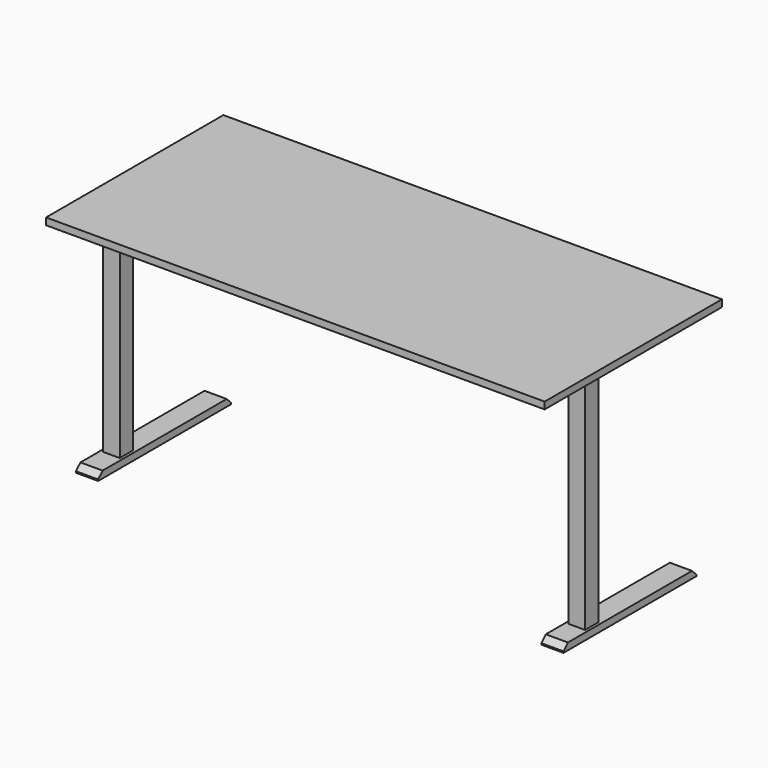
from build123d import *

# Parameters (mm, degrees)
F0_W     = 1800
F0_H     = 800
F1_DEPTH = 25
F2_W     = 60
F2_H     = 60
F3_DEPTH = 800
F4_W     = 80
F4_H     = 600
F5_DEPTH = 25
F6_SIZE  = 20


with BuildPart() as f1:
    # F0 (on Top) → F1 (new body)
    with BuildSketch(Plane.XY):
        with Locations((900, -400)):
            Rectangle(F0_W, F0_H)
    extrude(amount=F1_DEPTH)

    # F2 (on face) → F3 (join)
    with BuildSketch(Plane(origin=(0, 0, 0), x_dir=(1, 0, 0), z_dir=(0, 0, -1))):
        with Locations((60, 550)):
            Rectangle(F2_W, F2_H)
        with Locations((1740, 550)):
            Rectangle(F2_W, F2_H)
    extrude(amount=F3_DEPTH)

    # F4 (on face) → F5 (join)
    with BuildSketch(Plane(origin=(0, 0, -800), x_dir=(1, 0, 0), z_dir=(0, 0, -1))):
        with Locations((60, 390)):
            Rectangle(F4_W, F4_H)
        with Locations((1740, 390)):
            Rectangle(F4_W, F4_H)
    extrude(amount=F5_DEPTH)

    # F6
    f6_edges = [f1.edges().sort_by_distance(p)[0] for p in [
        (1740, -90, -800),
        (60, -90, -800),
        (60, -690, -800),
        (1740, -690, -800),
    ]]
    chamfer(f6_edges, length=F6_SIZE)


solid = f1.part
